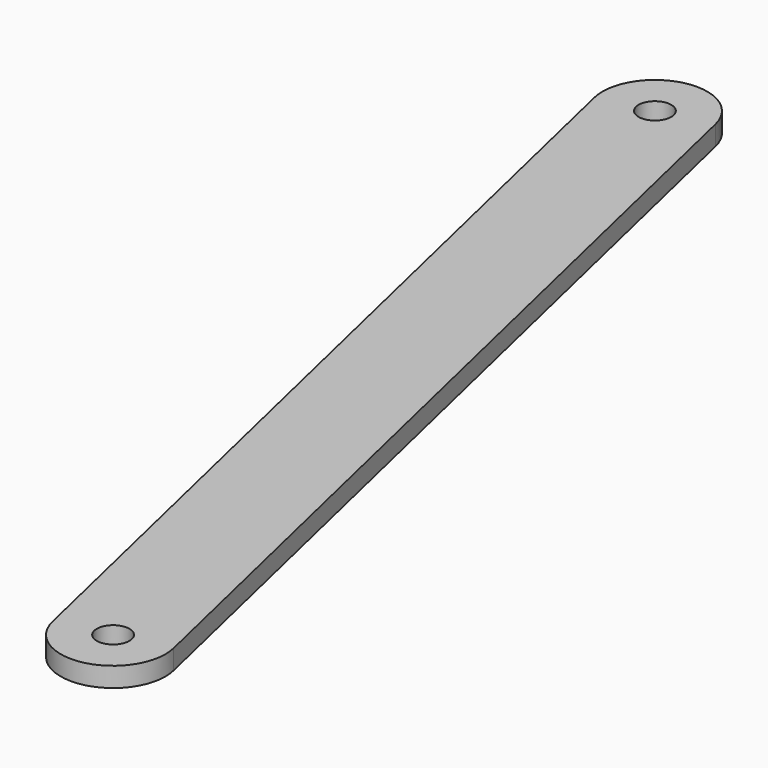
from build123d import *

# Parameters (mm, degrees)
SKETCH_R  = 2.5
PAD_DEPTH = 3


with BuildPart() as part:
    # Sketch → Pad (new body)
    with BuildSketch(Plane.XY):
        with BuildLine():
            ThreePointArc((-7.790648, -1.818186), (1.818186, -7.790648), (7.790648, 1.818186))
            Line((7.790648, 1.818186), (-26.300332, 147.892841))
            ThreePointArc((-26.300332, 147.892841), (-35.909166, 153.865304), (-41.881629, 144.25647))
            Line((-7.790648, -1.818186), (-41.881629, 144.25647))
        make_face()
        Circle(SKETCH_R, mode=Mode.SUBTRACT)
        with Locations((-34.09098, 146.074656)):
            Circle(SKETCH_R, mode=Mode.SUBTRACT)
    extrude(amount=PAD_DEPTH)


solid = part.part
